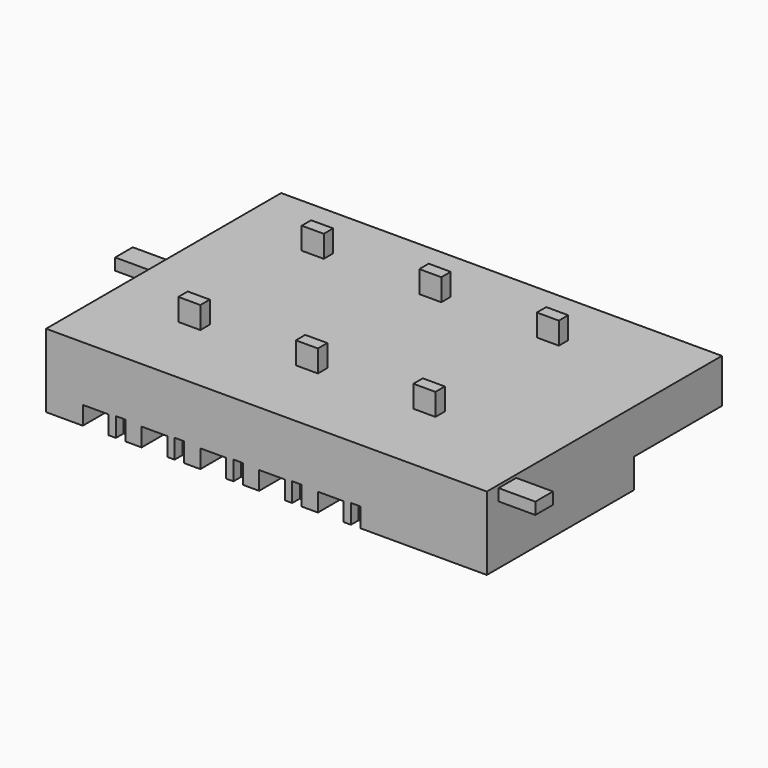
from build123d import *

# Parameters (mm, degrees)
BOX011_W     = 3048
BOX011_H     = 4572
BOX011_DEPTH = 1219.2
BOX006_W     = 1066.8
BOX006_H     = 1981.2
BOX006_DEPTH = 762
BOX005_W     = 396.24
BOX005_H     = 396.24
BOX005_DEPTH = 798.576
BOX007_W     = 1066.8
BOX007_H     = 1981.2
BOX007_DEPTH = 762
BOX008_W     = 396.24
BOX008_H     = 396.24
BOX008_DEPTH = 798.576
BOX010_W     = 1066.8
BOX010_H     = 1981.2
BOX010_DEPTH = 762
BOX009_W     = 396.24
BOX009_H     = 396.24
BOX009_DEPTH = 798.576
BOX001_W     = 1066.8
BOX001_H     = 1981.2
BOX001_DEPTH = 762
BOX002_W     = 396.24
BOX002_H     = 396.24
BOX002_DEPTH = 798.576
BOX003_W     = 1066.8
BOX003_H     = 1981.2
BOX003_DEPTH = 762
BOX004_W     = 396.24
BOX004_H     = 396.24
BOX004_DEPTH = 798.576
BOX016_W     = 914.4
BOX016_H     = 487.68
BOX016_DEPTH = 1219.2
BOX018_W     = 914.4
BOX018_H     = 487.68
BOX018_DEPTH = 1219.2
BOX017_W     = 914.4
BOX017_H     = 487.68
BOX017_DEPTH = 1219.2
BOX015_W     = 914.4
BOX015_H     = 487.68
BOX015_DEPTH = 1219.2
BOX014_W     = 914.4
BOX014_H     = 487.68
BOX014_DEPTH = 1219.2
BOX019_W     = 914.4
BOX019_H     = 487.68
BOX019_DEPTH = 1219.2
BOX013_W     = 2438.4
BOX013_H     = 914.4
BOX013_DEPTH = 487.68
BOX012_W     = 2438.4
BOX012_H     = 914.4
BOX012_DEPTH = 487.68
BOX_W        = 18288
BOX_H        = 12192
BOX_DEPTH    = 3048


with BuildPart() as nurse_station:
    # Box011 → Box011 (new body)
    with BuildSketch(Plane(origin=(15240, 7620, 0), x_dir=(1, 0, 0), z_dir=(0, 0, 1))):
        with Locations((1524, 2286)):
            Rectangle(BOX011_W, BOX011_H)
    extrude(amount=BOX011_DEPTH)


with BuildPart() as box006:
    # Box006 → Box006 (new body)
    with BuildSketch(Plane.XY):
        with Locations((533.4, 990.6)):
            Rectangle(BOX006_W, BOX006_H)
    extrude(amount=BOX006_DEPTH)


with BuildPart() as fusion002:
    # Box005 → Box005 (new body)
    with BuildSketch(Plane(origin=(1371.6, 0, 0), x_dir=(1, 0, 0), z_dir=(0, 0, 1))):
        with Locations((198.12, 198.12)):
            Rectangle(BOX005_W, BOX005_H)
    extrude(amount=BOX005_DEPTH)

    # Fusion002: union Box006
    add(box006.part)


with BuildPart() as fusion002_1:
    # Fusion002 placement: moved
    add(fusion002.part.moved(Location((4876.8, 0, 0))))


with BuildPart() as box007:
    # Box007 → Box007 (new body)
    with BuildSketch(Plane.XY):
        with Locations((533.4, 990.6)):
            Rectangle(BOX007_W, BOX007_H)
    extrude(amount=BOX007_DEPTH)


with BuildPart() as fusion003:
    # Box008 → Box008 (new body)
    with BuildSketch(Plane(origin=(1371.6, 0, 0), x_dir=(1, 0, 0), z_dir=(0, 0, 1))):
        with Locations((198.12, 198.12)):
            Rectangle(BOX008_W, BOX008_H)
    extrude(amount=BOX008_DEPTH)

    # Fusion003: union Box007
    add(box007.part)


with BuildPart() as fusion003_1:
    # Fusion003 placement: moved
    add(fusion003.part.moved(Location((7315.2, 0, 0))))


with BuildPart() as box010:
    # Box010 → Box010 (new body)
    with BuildSketch(Plane.XY):
        with Locations((533.4, 990.6)):
            Rectangle(BOX010_W, BOX010_H)
    extrude(amount=BOX010_DEPTH)


with BuildPart() as fusion004:
    # Box009 → Box009 (new body)
    with BuildSketch(Plane(origin=(1371.6, 0, 0), x_dir=(1, 0, 0), z_dir=(0, 0, 1))):
        with Locations((198.12, 198.12)):
            Rectangle(BOX009_W, BOX009_H)
    extrude(amount=BOX009_DEPTH)

    # Fusion004: union Box010
    add(box010.part)


with BuildPart() as fusion004_1:
    # Fusion004 placement: moved
    add(fusion004.part.moved(Location((9753.6, 0, 0))))


with BuildPart() as box001:
    # Box001 → Box001 (new body)
    with BuildSketch(Plane.XY):
        with Locations((533.4, 990.6)):
            Rectangle(BOX001_W, BOX001_H)
    extrude(amount=BOX001_DEPTH)


with BuildPart() as fusion:
    # Box002 → Box002 (new body)
    with BuildSketch(Plane(origin=(1371.6, 0, 0), x_dir=(1, 0, 0), z_dir=(0, 0, 1))):
        with Locations((198.12, 198.12)):
            Rectangle(BOX002_W, BOX002_H)
    extrude(amount=BOX002_DEPTH)

    # Fusion: union Box001
    add(box001.part)


with BuildPart() as box003:
    # Box003 → Box003 (new body)
    with BuildSketch(Plane.XY):
        with Locations((533.4, 990.6)):
            Rectangle(BOX003_W, BOX003_H)
    extrude(amount=BOX003_DEPTH)


with BuildPart() as right_beds:
    # Box004 → Box004 (new body)
    with BuildSketch(Plane(origin=(1371.6, 0, 0), x_dir=(1, 0, 0), z_dir=(0, 0, 1))):
        with Locations((198.12, 198.12)):
            Rectangle(BOX004_W, BOX004_H)
    extrude(amount=BOX004_DEPTH)

    # Fusion001: union Box003
    add(box003.part)


with BuildPart() as right_beds_1:
    # Fusion001 placement: moved
    add(right_beds.part.moved(Location((2438.4, 0, 0))))

    # Fusion005: union Fusion002, Fusion003, Fusion004, Fusion
    add(fusion002_1.part)
    add(fusion003_1.part)
    add(fusion004_1.part)
    add(fusion.part)


with BuildPart() as all_surfaces:
    # Part__Mirroring: instance of right beds
    add(right_beds_1.part.mirror(Plane(origin=(0, 6096, 0), x_dir=(1, 0, 0), z_dir=(0, 1, 0))))

    # Fusion006: union right beds
    add(right_beds_1.part)


with BuildPart() as all_surfaces_1:
    # Fusion006 placement: moved
    add(all_surfaces.part.moved(Location((1524, 0, 0))))

    # Fusion011: union Nurse Station
    add(nurse_station.part)


with BuildPart() as branch002:
    # Box016 → Box016 (new body)
    with BuildSketch(Plane(origin=(7924.8, 3048, 2743.2), x_dir=(1, 0, 0), z_dir=(0, 0, 1))):
        with Locations((457.2, 243.84)):
            Rectangle(BOX016_W, BOX016_H)
    extrude(amount=BOX016_DEPTH)


with BuildPart() as branch004:
    # Box018 → Box018 (new body)
    with BuildSketch(Plane(origin=(3048, 3048, 2743.2), x_dir=(1, 0, 0), z_dir=(0, 0, 1))):
        with Locations((457.2, 243.84)):
            Rectangle(BOX018_W, BOX018_H)
    extrude(amount=BOX018_DEPTH)


with BuildPart() as branch003:
    # Box017 → Box017 (new body)
    with BuildSketch(Plane(origin=(7924.8, 9448.8, 2743.2), x_dir=(1, 0, 0), z_dir=(0, 0, 1))):
        with Locations((457.2, 243.84)):
            Rectangle(BOX017_W, BOX017_H)
    extrude(amount=BOX017_DEPTH)


with BuildPart() as branch001:
    # Box015 → Box015 (new body)
    with BuildSketch(Plane(origin=(12801.6, 3048, 2743.2), x_dir=(1, 0, 0), z_dir=(0, 0, 1))):
        with Locations((457.2, 243.84)):
            Rectangle(BOX015_W, BOX015_H)
    extrude(amount=BOX015_DEPTH)


with BuildPart() as branch:
    # Box014 → Box014 (new body)
    with BuildSketch(Plane(origin=(12801.6, 9448.8, 2743.2), x_dir=(1, 0, 0), z_dir=(0, 0, 1))):
        with Locations((457.2, 243.84)):
            Rectangle(BOX014_W, BOX014_H)
    extrude(amount=BOX014_DEPTH)


with BuildPart() as branch_ducts:
    # Box019 → Box019 (new body)
    with BuildSketch(Plane(origin=(3048, 9448.8, 2743.2), x_dir=(1, 0, 0), z_dir=(0, 0, 1))):
        with Locations((457.2, 243.84)):
            Rectangle(BOX019_W, BOX019_H)
    extrude(amount=BOX019_DEPTH)

    # Fusion007: union branch002, branch004, branch003, branch001, branch
    add(branch002.part)
    add(branch004.part)
    add(branch003.part)
    add(branch001.part)
    add(branch.part)


with BuildPart() as main_outlet:
    # Box013 → Box013 (new body)
    with BuildSketch(Plane(origin=(-1524, 5486.4, 2438.4), x_dir=(1, 0, 0), z_dir=(0, 0, 1))):
        with Locations((1219.2, 457.2)):
            Rectangle(BOX013_W, BOX013_H)
    extrude(amount=BOX013_DEPTH)


with BuildPart() as all_ducts:
    # Box012 → Box012 (new body)
    with BuildSketch(Plane(origin=(17373.6, 609.6, 2438.4), x_dir=(1, 0, 0), z_dir=(0, 0, 1))):
        with Locations((1219.2, 457.2)):
            Rectangle(BOX012_W, BOX012_H)
    extrude(amount=BOX012_DEPTH)

    # Fusion008: union main outlet
    add(main_outlet.part)

    # Fusion009: union branch ducts
    add(branch_ducts.part)


with BuildPart() as flow_field:
    # Box → Box (new body)
    with BuildSketch(Plane.XY):
        with Locations((9144, 6096)):
            Rectangle(BOX_W, BOX_H)
    extrude(amount=BOX_DEPTH)

    # Fusion010: union all ducts
    add(all_ducts.part)

    # Cut: cut All_Surfaces
    add(all_surfaces_1.part, mode=Mode.SUBTRACT)


solid = flow_field.part
